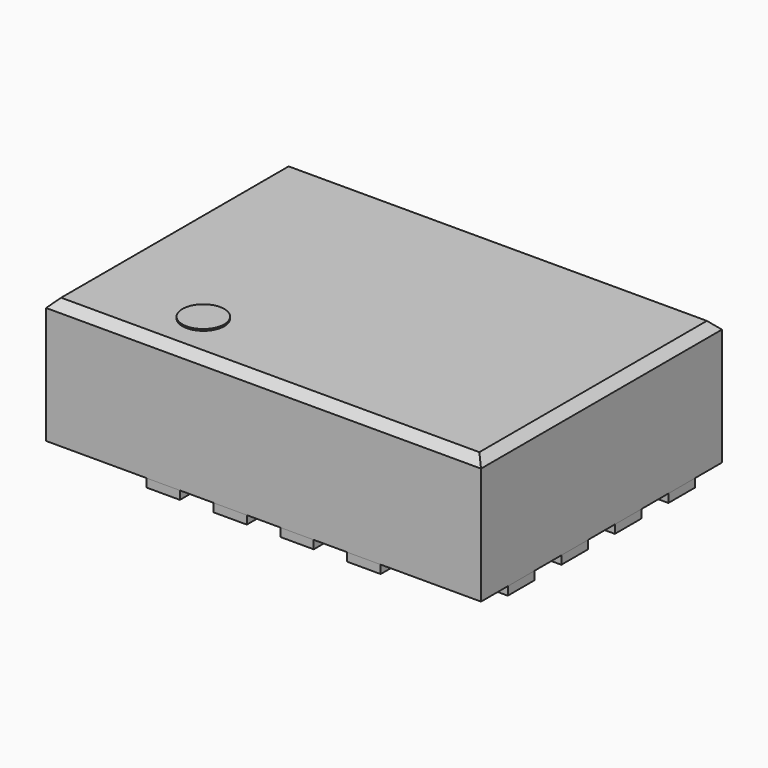
from build123d import *

# Parameters (mm, degrees)
F0_W     = 2.6
F0_H     = 1.8
F1_DEPTH = 0.75
F3_DEPTH = 0.05
F5_R     = 0.125
F6_DEPTH = 0.01
F7_SIZE  = 0.05


with BuildPart() as f1:
    # F0 (on Top) → F1 (new body)
    with BuildSketch(Plane.XY):
        Rectangle(F0_W, F0_H)
    extrude(amount=F1_DEPTH)

    # F7
    f7_edges = [f1.edges().sort_by_distance(p)[0] for p in [
        (0, -0.9, 0.75),
        (1.3, 0, 0.75),
        (0, 0.9, 0.75),
        (-1.3, 0, 0.75),
    ]]
    chamfer(f7_edges, length=F7_SIZE)


with BuildPart() as f3:
    # F2 (on Top) → F3 (new body)
    with BuildSketch(Plane.XY):
        with BuildLine():
            Line((-0.5, -0.9), (-0.5, -0.6))
            ThreePointArc((-0.5, -0.6), (-0.6, -0.5), (-0.7, -0.6))
            Line((-0.7, -0.6), (-0.7, -0.9))
            Line((-0.7, -0.9), (-0.5, -0.9))
        make_face()
        with BuildLine():
            Line((-0.1, -0.9), (-0.1, -0.6))
            ThreePointArc((-0.1, -0.6), (-0.2, -0.5), (-0.3, -0.6))
            Line((-0.3, -0.6), (-0.3, -0.9))
            Line((-0.3, -0.9), (-0.1, -0.9))
        make_face()
        with BuildLine():
            Line((0.3, -0.9), (0.3, -0.6))
            ThreePointArc((0.3, -0.6), (0.2, -0.5), (0.1, -0.6))
            Line((0.1, -0.6), (0.1, -0.9))
            Line((0.1, -0.9), (0.3, -0.9))
        make_face()
        with BuildLine():
            Line((0.7, -0.9), (0.7, -0.6))
            ThreePointArc((0.7, -0.6), (0.6, -0.5), (0.5, -0.6))
            Line((0.5, -0.6), (0.5, -0.9))
            Line((0.5, -0.9), (0.7, -0.9))
        make_face()
        with BuildLine():
            Line((-1.3, 0.5), (-1, 0.5))
            ThreePointArc((-1, 0.5), (-0.9, 0.6), (-1, 0.7))
            Line((-1, 0.7), (-1.3, 0.7))
            Line((-1.3, 0.7), (-1.3, 0.5))
        make_face()
        with BuildLine():
            Line((-1.3, 0.1), (-1, 0.1))
            ThreePointArc((-1, 0.1), (-0.9, 0.2), (-1, 0.3))
            Line((-1, 0.3), (-1.3, 0.3))
            Line((-1.3, 0.3), (-1.3, 0.1))
        make_face()
        with BuildLine():
            Line((1, 0.1), (1.3, 0.1))
            Line((1.3, 0.1), (1.3, 0.3))
            Line((1.3, 0.3), (1, 0.3))
            ThreePointArc((1, 0.3), (0.9, 0.2), (1, 0.1))
        make_face()
        with BuildLine():
            Line((1.3, 0.7), (1, 0.7))
            ThreePointArc((1, 0.7), (0.9, 0.6), (1, 0.5))
            Line((1, 0.5), (1.3, 0.5))
            Line((1.3, 0.5), (1.3, 0.7))
        make_face()
    extrude(amount=-F3_DEPTH)


with BuildPart() as f4_1:
    # F4: instance of F3
    add(f3.part.mirror(Plane.XZ))


with BuildPart() as f6:
    # F5 (on face) → F6 (new body)
    with BuildSketch(Plane.XY.offset(0.75)):
        with Locations((-0.6, -0.6)):
            Circle(F5_R)
    extrude(amount=F6_DEPTH)


solid = Compound([f1.part, f3.part, f4_1.part, f6.part])
